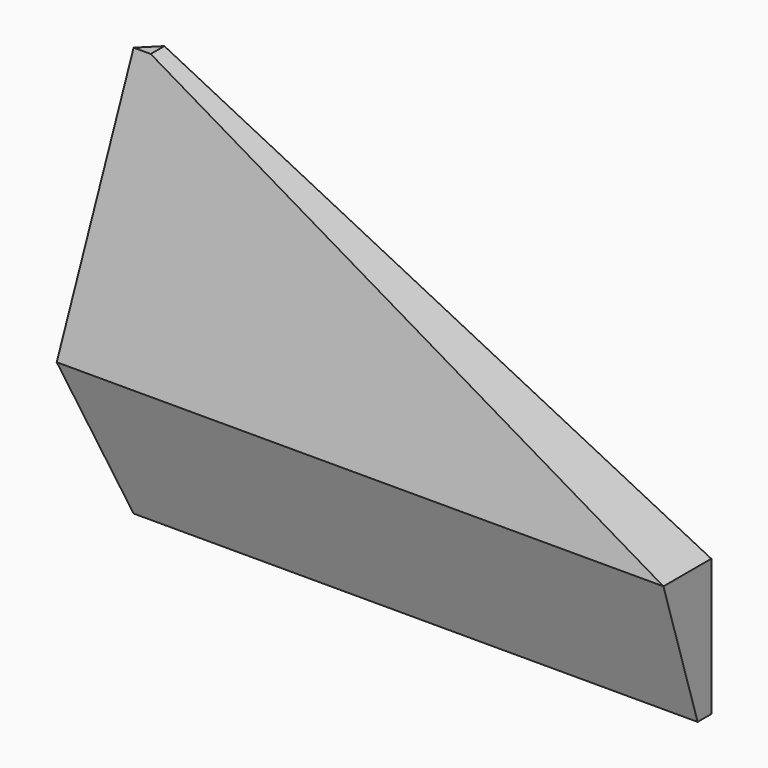
from build123d import *

# Parameters (mm, degrees)
F0_W     = 457.2
F0_H     = 304.8
F1_DEPTH = 44.45
F3_DEPTH = 457.201
F5_DEPTH = 44.451
F7_DEPTH = 304.801


with BuildPart() as f1:
    # F0 (on Front) → F1 (new body)
    with BuildSketch(Plane.XZ):
        with Locations((154.513133, 152.4)):
            Rectangle(F0_W, F0_H)
    extrude(amount=F1_DEPTH)

    # F2 (on face) → F3 (cut, through all)
    with BuildSketch(Plane.YZ.offset(383.113133)):
        Polygon((-44.45, 101.6), (-12.7, 304.8), (-82.839599, 304.8), (-82.839599, 0), (-12.7, 0), align=None)
    extrude(amount=-F3_DEPTH, mode=Mode.SUBTRACT)

    # F4 (on face) → F5 (cut, through all)
    with BuildSketch(Plane(origin=(0, 0, 0), x_dir=(-1, 0, 0), z_dir=(0, 1, 0))):
        Polygon((-383.113133, 101.6), (23.286867, 304.8), (-383.113133, 304.8), align=None)
    extrude(amount=-F5_DEPTH, mode=Mode.SUBTRACT)

    # F6 (on face) → F7 (cut, through all)
    with BuildSketch(Plane(origin=(0, 0, 0), x_dir=(1, 0, 0), z_dir=(0, 0, -1))):
        Polygon((-74.086867, 50.8), (-74.086867, 0), (-23.286867, 0), align=None)
    extrude(amount=-F7_DEPTH, mode=Mode.SUBTRACT)


solid = f1.part
